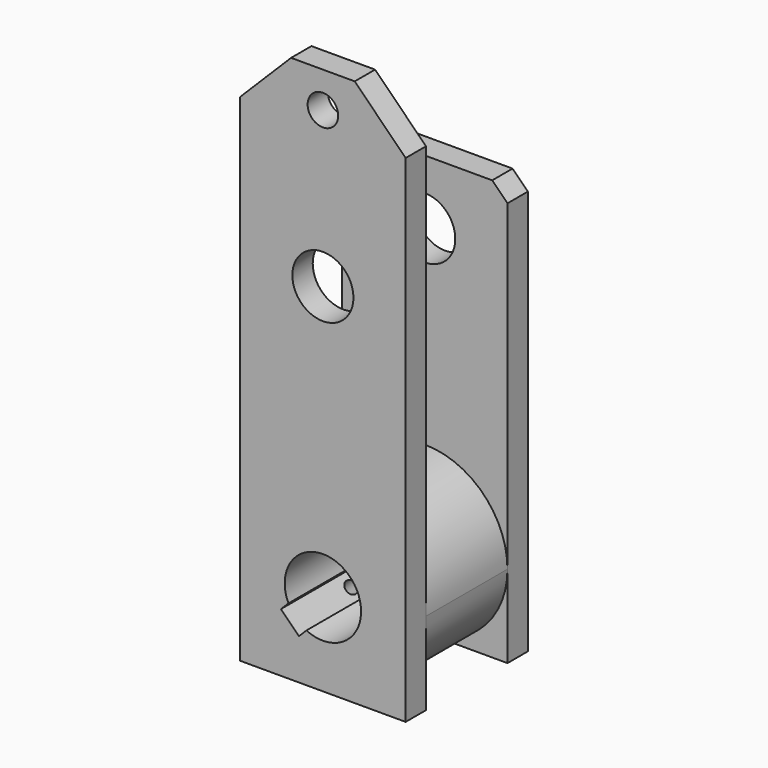
from build123d import *

# Parameters (mm, degrees)
F0_W      = 65
F0_H      = 215
F1_DEPTH  = 10
F2_SIZE   = 20
F4_DEPTH  = 40
F6_DEPTH  = 10
F7_SIZE   = 6
F9_D      = 30
F10_D     = 24
F12_DEPTH = 60.001
F13_R     = 6
F14_DEPTH = 10
F17_D     = 5
F17_DEPTH = 27.6629407771


with BuildPart() as f1:
    # F0 (on Front) → F1 (new body)
    with BuildSketch(Plane.XZ):
        Rectangle(F0_W, F0_H)
    extrude(amount=-F1_DEPTH)

    # F2
    f2_edges = [f1.edges().sort_by_distance(p)[0] for p in [
        (-32.5, 5, 107.5),
        (32.5, 5, 107.5),
    ]]
    chamfer(f2_edges, length=F2_SIZE)

    # F3 (on face) → F4 (join)
    with BuildSketch(Plane(origin=(0, 10, 0), x_dir=(-1, 0, 0), z_dir=(0, 1, 0))):
        with BuildLine():
            ThreePointArc((8.49e-08, -107.5), (22.9809704186, -97.9809703586), (32.5, -75))
            ThreePointArc((32.5, -75), (0, -42.5), (-32.5, -75))
            ThreePointArc((-32.5, -75), (-22.9809703586, -97.9809704186), (8.49e-08, -107.5))
        make_face()
    extrude(amount=F4_DEPTH)

    # F5 (on face) → F6 (join)
    with BuildSketch(Plane(origin=(0, 50, 0), x_dir=(-1, 0, 0), z_dir=(0, 1, 0))):
        with BuildLine():
            ThreePointArc((-32.5, -75), (0, -42.5), (32.5, -75))
            Line((32.5, -75), (32.5, 57.5))
            Line((32.5, 57.5), (-32.5, 57.5))
            Line((-32.5, 57.5), (-32.5, -75))
        make_face()
        with BuildLine():
            ThreePointArc((-32.5, -75), (-22.9809704241, -97.980970353), (-1.006e-07, -107.5))
            ThreePointArc((-1.006e-07, -107.5), (22.980970353, -97.9809704241), (32.5, -75))
            ThreePointArc((32.5, -75), (0, -42.5), (-32.5, -75))
        make_face()
        with BuildLine():
            Line((-32.5, -107.5), (-1.006e-07, -107.5))
            ThreePointArc((-1.006e-07, -107.5), (-22.9809704241, -97.980970353), (-32.5, -75))
            Line((-32.5, -75), (-32.5, -107.5))
        make_face()
        with BuildLine():
            Line((-1.006e-07, -107.5), (32.5, -107.5))
            Line((32.5, -107.5), (32.5, -75))
            ThreePointArc((32.5, -75), (22.980970353, -97.9809704241), (-1.006e-07, -107.5))
        make_face()
    extrude(amount=F6_DEPTH)

    # F7
    f7_edges = [f1.edges().sort_by_distance(p)[0] for p in [
        (32.5, 55, 57.5),
        (-32.5, 55, 57.5),
    ]]
    chamfer(f7_edges, length=F7_SIZE)

    # F9 (through all)
    with Locations(Plane.XZ):
        with Locations((0, -75)):
            Hole(F9_D / 2)

    # F10 (through all)
    with Locations(Plane.XZ):
        with Locations((0, 32.5)):
            Hole(F10_D / 2)

    # F11 (on face) → F12 (cut, through all)
    with BuildSketch(Plane.XZ):
        with BuildLine():
            ThreePointArc((-6.4644660941, -88.5355339059), (-10.6066017178, -85.6066017178), (-13.5355339059, -81.4644660941))
            Line((-13.5355339059, -81.4644660941), (-16.4755880016, -84.4045201898))
            Line((-16.4755880016, -84.4045201898), (-9.4045201898, -91.4755880016))
            Line((-9.4045201898, -91.4755880016), (-6.4644660941, -88.5355339059))
        make_face()
    extrude(amount=-F12_DEPTH, mode=Mode.SUBTRACT)

    # F13 (on face) → F14 (cut, through all)
    with BuildSketch(Plane.XZ):
        with Locations((0, 93.5)):
            Circle(F13_R)
    extrude(amount=-F14_DEPTH, mode=Mode.SUBTRACT)

    # F17 (through all, one way)
    with BuildSketch(Plane(origin=(-50.4400540957, 0, -50.4400540957), x_dir=(0, -1, 0), z_dir=(0.7071067812, 0, 0.7071067812))):
        with Locations((-30, 53.033008589)):
            Circle(F17_D / 2)
    extrude(amount=-F17_DEPTH, mode=Mode.SUBTRACT)


solid = f1.part
